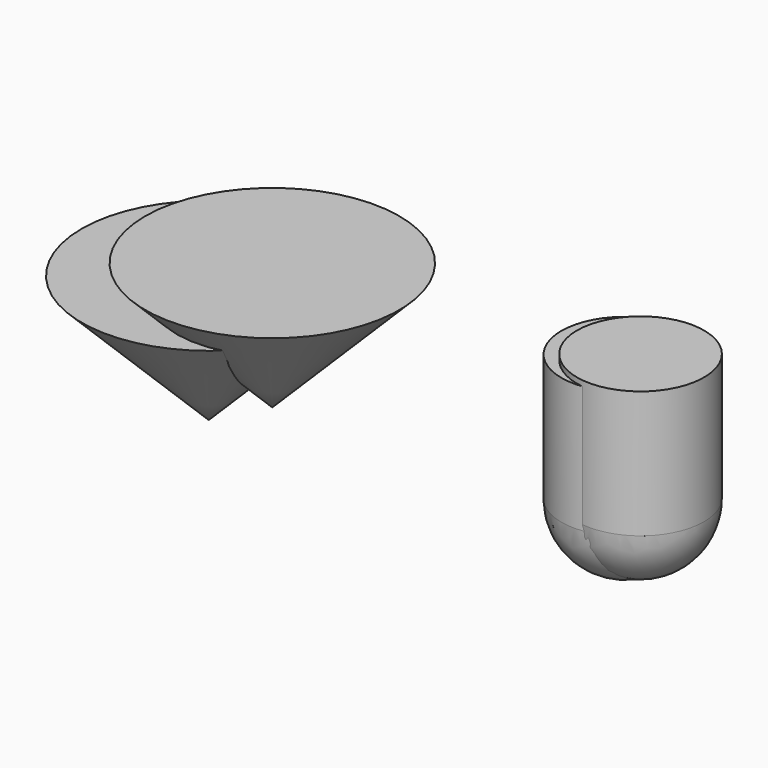
from build123d import *

# Parameters (mm, degrees)
F1_ANGLE = -180
F2_DEPTH = 25.4


with BuildPart() as f1:
    # F0 (on Top) → F1 (revolve)
    with BuildSketch(Plane.XY):
        with BuildLine():
            Line((25.027496, 31.862879), (50.427496, 31.862879))
            ThreePointArc((50.427496, 31.862879), (37.727496, 44.562879), (25.027496, 31.862879))
        make_face()
    revolve(axis=Axis((37.727496, 31.862879, 0), (1, 0, 0)), revolution_arc=F1_ANGLE)

    # F1_face (on face) → F2 (join)
    with BuildSketch(Plane(origin=(37.727496, 31.862879, 0), x_dir=(1, 0, 0), z_dir=(0, 0, 1))):
        with BuildLine():
            ThreePointArc((12.7, 0), (0, 12.7), (-12.7, 0))
            ThreePointArc((-12.7, 0), (0, -12.7), (12.7, 0))
        make_face()
    extrude(amount=F2_DEPTH)


with BuildPart() as f3_1:
    # F3: copy of F1
    add(f1.part.moved(Location((3.1242, 0, 1.0922))))


with BuildPart() as f5:
    # F4 (on Front) → F5 (revolve)
    with BuildSketch(Plane.XZ):
        Polygon((-19.946696, 33.431756), (-45.346696, 33.431756), (-19.946696, 8.031756), align=None)
    revolve(axis=Axis((-19.946696, 0, 20.731756), (0, 0, -1)))


with BuildPart() as f6_1:
    # F6: copy of F5
    add(f5.part.moved(Location((12.7, 0, 6.35))))


solid = Compound([f1.part, f3_1.part, f5.part, f6_1.part])
